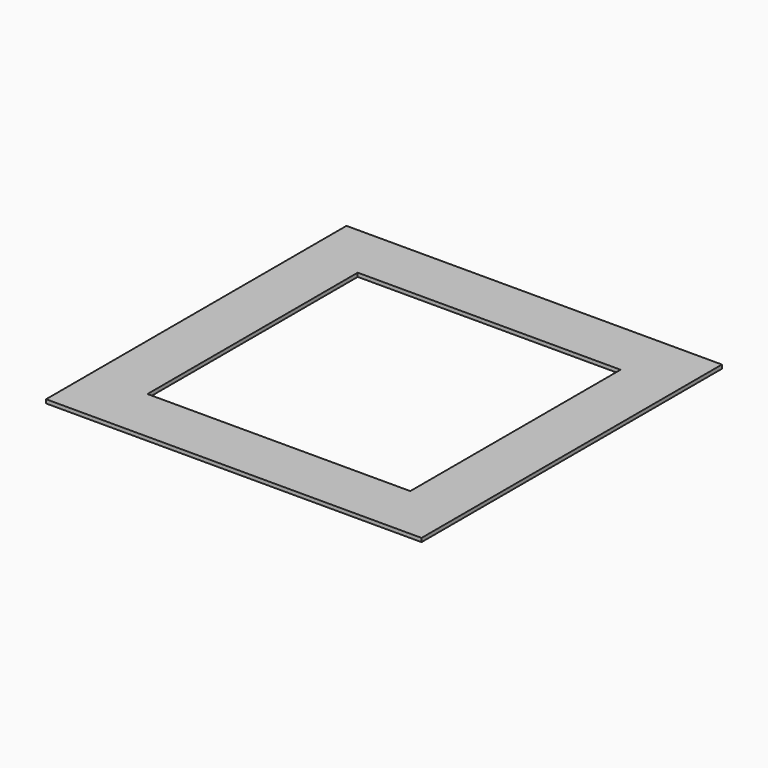
from build123d import *

# Parameters (mm, degrees)
BOX001_W     = 700
BOX001_H     = 700
BOX001_DEPTH = 10
BOX_W        = 1000
BOX_H        = 1000
BOX_DEPTH    = 10


with BuildPart() as cube001:
    # Box001 → Box001 (new body)
    with BuildSketch(Plane(origin=(150, 150, 0), x_dir=(1, 0, 0), z_dir=(0, 0, 1))):
        with Locations((350, 350)):
            Rectangle(BOX001_W, BOX001_H)
    extrude(amount=BOX001_DEPTH)


with BuildPart() as cut:
    # Box → Box (new body)
    with BuildSketch(Plane.XY):
        with Locations((500, 500)):
            Rectangle(BOX_W, BOX_H)
    extrude(amount=BOX_DEPTH)

    # Cut: cut Cube001
    add(cube001.part, mode=Mode.SUBTRACT)


solid = cut.part
